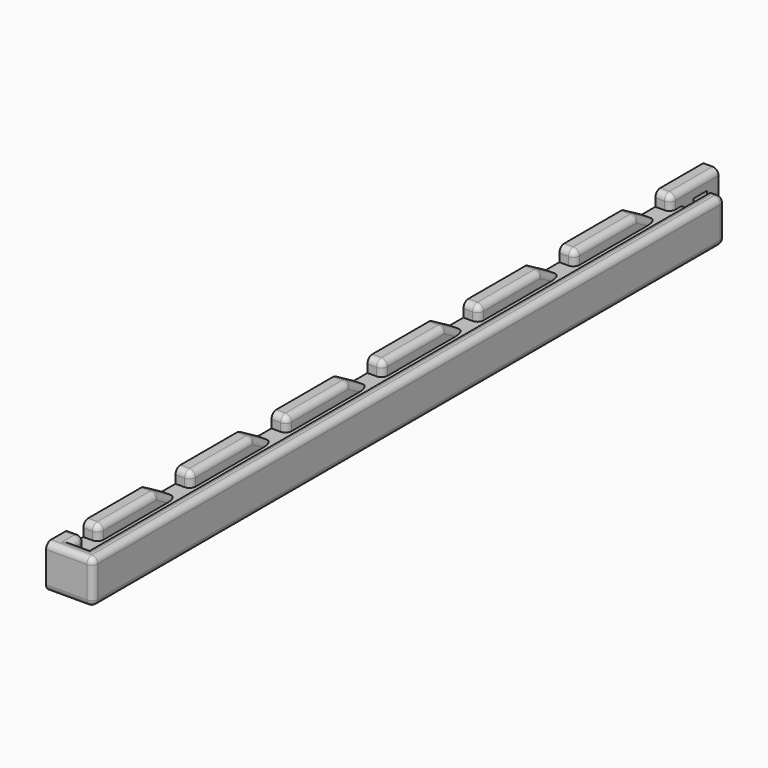
from build123d import *

# Parameters (mm, degrees)
SKETCH005_W          = 5
SKETCH005_H          = 14.2336
PAD003_DEPTH         = 270
PAD004_DEPTH         = 2.5
PAD005_DEPTH         = 4.7
SKETCH012_W          = 5.4
SKETCH012_H          = 5.4
POCKET004_DEPTH      = 2.501
POCKET004_DEPTH_BACK = 7.901
POCKET005_DEPTH      = 2.501
POCKET005_DEPTH_BACK = 7.901
LINEARPATTERN_COUNT  = 6
LINEARPATTERN_PITCH  = 39.428571
SKETCH015_W          = 5.6
SKETCH015_H          = 4.6168
POCKET006_DEPTH      = 2.501
POCKET006_DEPTH_BACK = 7.901
SKETCH031_W          = 259.7
SKETCH031_H          = 14.2336
PAD016_DEPTH         = 5
FILLET013_R          = 2


with BuildPart() as part:
    # Sketch005 → Pad003 (new body)
    with BuildSketch(Plane.XZ.offset(-40)):
        Rectangle(SKETCH005_W, SKETCH005_H)
    extrude(amount=PAD003_DEPTH)

    # Sketch006 → Pad004 (join, symmetric)
    with BuildSketch(Plane.XY):
        Polygon((2.5, -230), (7.9, -230), (7.9, 0), (7.9, 24.8), (2.5, 24.8), align=None)
    extrude(amount=PAD004_DEPTH, both=True)

    # Sketch007 (on Face5 of Pad004) → Pad005 (join)
    with BuildSketch(Plane.XZ.offset(230)):
        Polygon((7.9, 7.1168), (7.9, -7.1168), (2.5, -7.1168), (-2.5, -7.1168), (-2.5, 7.1168), (2.5, 7.1168), align=None)
    extrude(amount=-PAD005_DEPTH)

    # Sketch012 → Pocket004 (cut, two sides)
    with BuildSketch(Plane.YZ) as pocket004_sk:
        with Locations((32.5, 0)):
            Rectangle(SKETCH012_W, SKETCH012_H)
    extrude(amount=-POCKET004_DEPTH, mode=Mode.SUBTRACT)
    extrude(pocket004_sk.sketch, amount=POCKET004_DEPTH_BACK, mode=Mode.SUBTRACT)

    # Sketch013 → Pocket005 (cut, two sides)
    with BuildSketch(Plane.YZ) as pocket005_sk:
        Polygon((6.703468, 7.1168), (20.3, 7.1168), (20.3, 2.5), (14.7, 2.5), align=None)
    pocket005 = extrude(amount=-POCKET005_DEPTH, mode=Mode.SUBTRACT) + extrude(pocket005_sk.sketch, amount=POCKET005_DEPTH_BACK, mode=Mode.SUBTRACT)

    # LinearPattern: Pocket005 ×6
    with Locations(*[(0, -i * LINEARPATTERN_PITCH, 0) for i in range(1, LINEARPATTERN_COUNT)]):
        add(pocket005, mode=Mode.SUBTRACT)

    # Sketch015 → Pocket006 (cut, two sides)
    with BuildSketch(Plane.YZ) as pocket006_sk:
        with Locations((-217.5, 4.8084)):
            Rectangle(SKETCH015_W, SKETCH015_H)
    extrude(amount=-POCKET006_DEPTH, mode=Mode.SUBTRACT)
    extrude(pocket006_sk.sketch, amount=POCKET006_DEPTH_BACK, mode=Mode.SUBTRACT)

    # Sketch031 → Pad016 (join)
    with BuildSketch(Plane.YZ.offset(7.9)):
        with Locations((-100.15, 0)):
            Rectangle(SKETCH031_W, SKETCH031_H)
    extrude(amount=PAD016_DEPTH)

    # Fillet013
    fillet013_edges = [part.edges().sort_by_distance(p)[0] for p in [
        (5.2, -230, 7.1168),
        (2.5, -222.8, 7.1168),
        (0, -220.3, 7.1168),
        (5.2, -225.3, 7.1168),
        (7.9, -97.8, 7.1168),
        (12.9, -100.15, 7.1168),
        (12.9, -100.15, -7.1168),
        (7.9, -97.8, -7.1168),
        (5.2, -225.3, -7.1168),
        (2.5, -92.65, -7.1168),
        (2.5, -220.3, 4.8084),
        (0, -214.7, 7.1168),
        (2.5, -214.7, 4.8084),
        (2.5, -202.569695, 7.1168),
        (2.5, -186.441123, 4.8084),
        (0, -190.439389, 7.1168),
        (0, -176.842857, 7.1168),
        (2.5, -176.842857, 4.8084),
        (2.5, -163.926838, 7.1168),
        (2.5, -147.012552, 4.8084),
        (0, -151.010818, 7.1168),
        (0, -137.414286, 7.1168),
        (2.5, -137.414286, 4.8084),
        (2.5, -124.498266, 7.1168),
        (0, -111.582246, 7.1168),
        (2.5, -107.58398, 4.8084),
        (2.5, -97.985714, 4.8084),
        (0, -97.985714, 7.1168),
        (2.5, -85.069695, 7.1168),
        (0, -72.153675, 7.1168),
        (2.5, -68.155409, 4.8084),
        (0, -58.557143, 7.1168),
        (2.5, -58.557143, 4.8084),
        (2.5, -45.641123, 7.1168),
        (0, -32.725104, 7.1168),
        (2.5, -28.726838, 4.8084),
        (0, -19.128571, 7.1168),
        (2.5, -19.128571, 4.8084),
        (2.5, -6.212552, 7.1168),
        (0, 6.703468, 7.1168),
        (2.5, 10.701734, 4.8084),
        (0, 20.3, 7.1168),
        (2.5, 30.15, 7.1168),
        (2.5, 20.3, 4.8084),
        (5.2, -230, -7.1168),
        (12.9, -230, 0),
        (12.9, 29.7, 0),
        (10.4, 29.7, 7.1168),
        (10.4, 29.7, -7.1168),
    ]]
    fillet(fillet013_edges, radius=FILLET013_R)


with BuildPart() as part_1:
    # Body001 placement: moved
    add(part.part.moved(Location((28.4159, -10, 78.239))))


solid = part_1.part
